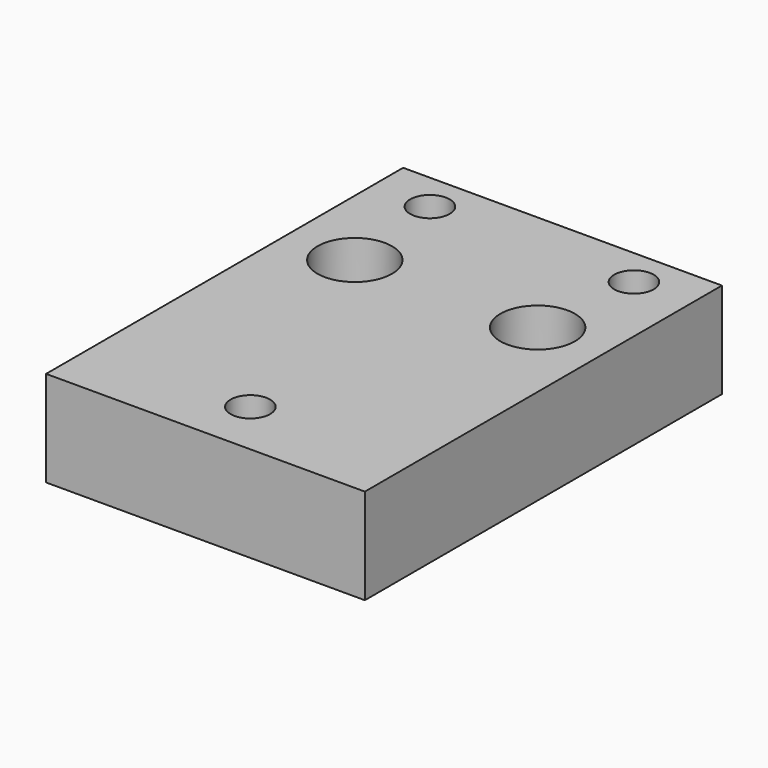
from build123d import *

# Parameters (mm, degrees)
F0_W     = 63.5
F0_H     = 88.9
F0_R     = 3.937
F0_R_2   = 7.4295
F1_DEPTH = 19.05
F2_R     = 11.3792
F2_R_2   = 7.4295
F3_DEPTH = 2.54


with BuildPart() as f1:
    # F0 (on Top) → F1 (new body)
    with BuildSketch(Plane.XY):
        with Locations((31.75, 44.45)):
            Rectangle(F0_W, F0_H)
        with Locations((31.75, 11.176)):
            Circle(F0_R, mode=Mode.SUBTRACT)
        with Locations((13.5382, 59.944)):
            Circle(F0_R_2, mode=Mode.SUBTRACT)
        with Locations((11.43, 81.28)):
            Circle(F0_R, mode=Mode.SUBTRACT)
        with Locations((49.9618, 59.944)):
            Circle(F0_R_2, mode=Mode.SUBTRACT)
        with Locations((52.07, 81.28)):
            Circle(F0_R, mode=Mode.SUBTRACT)
    extrude(amount=F1_DEPTH)

    # F2 (on face) → F3 (cut)
    with BuildSketch(Plane(origin=(0, 0, 0), x_dir=(1, 0, 0), z_dir=(0, 0, -1))):
        with Locations((49.9618, -59.944)):
            Circle(F2_R)
        with Locations((49.9618, -59.944)):
            Circle(F2_R_2, mode=Mode.SUBTRACT)
        with Locations((13.5382, -59.944)):
            Circle(F2_R)
        with Locations((13.5382, -59.944)):
            Circle(F2_R_2, mode=Mode.SUBTRACT)
    extrude(amount=-F3_DEPTH, mode=Mode.SUBTRACT)


with BuildPart() as f4_1:
    # F4: copy of F1
    add(f1.part.moved(Location((-152.4, 0, 0))))


solid = f1.part
